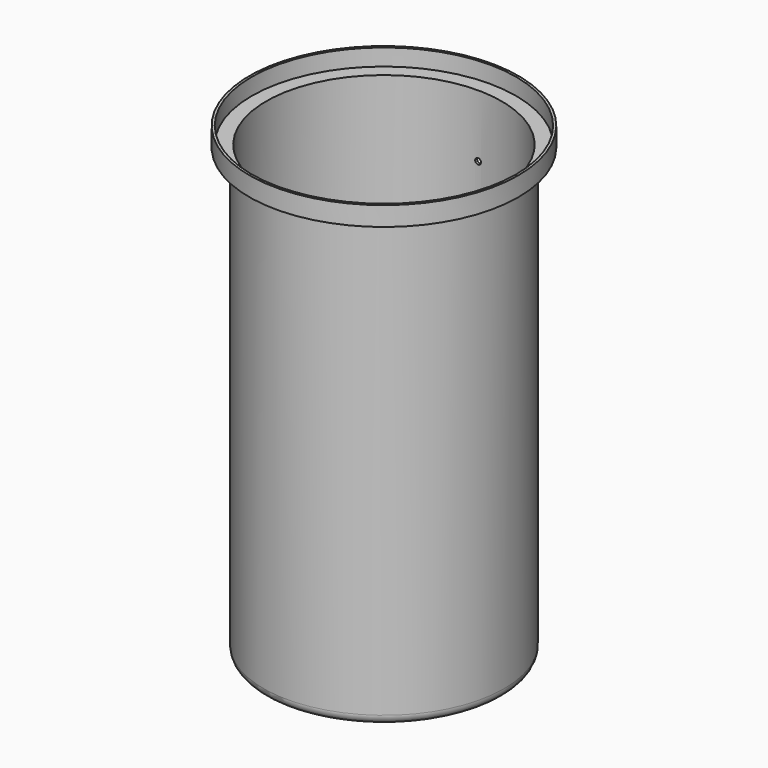
from build123d import *

# Parameters (mm, degrees)
F2_T     = -2.54
F3_R     = 3
F4_DEPTH = 140.001


with BuildPart() as f1:
    # F0 (on Front) → F1 (revolve)
    with BuildSketch(Plane.XZ):
        with BuildLine():
            Line((0, 242.5), (0, -242.5))
            Line((0, -242.5), (115, -242.5))
            ThreePointArc((115, -242.5), (122.0710678119, -239.5710678119), (125, -232.5))
            Line((125, -232.5), (125, 222.5))
            Line((125, 222.5), (140, 222.5))
            Line((140, 222.5), (140, 242.5))
            Line((140, 242.5), (0, 242.5))
        make_face()
    revolve(axis=Axis((0, 0, 0), (0, 0, -1)))

    # F2
    f2_openings = [f1.faces().sort_by_distance(p)[0] for p in [
        (0, 0, 242.5),
    ]]
    offset(amount=F2_T, openings=f2_openings, kind=Kind.INTERSECTION)

    # F3 (on Front) → F4 (cut, through all)
    with BuildSketch(Plane.XZ):
        with Locations((0, 160)):
            Circle(F3_R)
        with Locations((0, -40)):
            Circle(F3_R)
        with Locations((0, -190)):
            Circle(F3_R)
    extrude(amount=-F4_DEPTH, mode=Mode.SUBTRACT)


solid = f1.part
